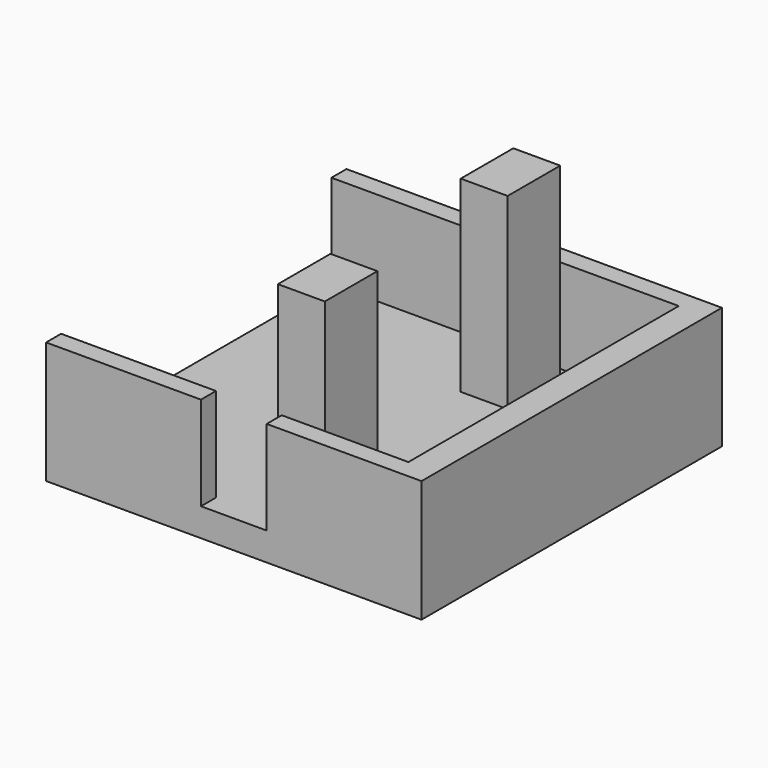
from build123d import *

# Parameters (mm, degrees)
F0_W      = 50.8
F0_H      = 50.8
F1_DEPTH  = 3.81
F2_W      = 50.8
F2_H      = 2.54
F3_DEPTH  = 12.7
F4_W      = 20.955
F4_H      = 2.54
F5_DEPTH  = 12.7
F6_W      = 20.955
F6_H      = 2.54
F7_DEPTH  = 2.54
F8_W      = 3.81
F8_H      = 45.72
F9_DEPTH  = 2.54
F10_DEPTH = 10.16
F11_W     = 6.35
F11_H     = 8.89
F12_DEPTH = 25.4
F13_W     = 6.35
F13_H     = 8.89
F14_DEPTH = 25.4


with BuildPart() as f1:
    # F0 (on Top) → F1 (new body)
    with BuildSketch(Plane.XY):
        with Locations((-6.6145006567, 7.1719978217)):
            Rectangle(F0_W, F0_H)
    extrude(amount=F1_DEPTH)

    # F2 (on face) → F3 (join)
    with BuildSketch(Plane.XY.offset(3.81)):
        with Locations((-6.6145006567, 31.3019978217)):
            Rectangle(F2_W, F2_H)
    extrude(amount=F3_DEPTH)

    # F4 (on face) → F5 (join)
    with BuildSketch(Plane.XY.offset(3.81)):
        with Locations((-21.5370006567, -16.9580021783)):
            Rectangle(F4_W, F4_H)
    extrude(amount=F5_DEPTH)

    # F6 (on face) → F7 (join)
    with BuildSketch(Plane.XY.offset(3.81)):
        with Locations((8.3079993433, -16.9580021783)):
            Rectangle(F6_W, F6_H)
    extrude(amount=F7_DEPTH)

    # F8 (on face) → F9 (join)
    with BuildSketch(Plane.XY.offset(3.81)):
        with Locations((16.8804993433, 7.1719978217)):
            Rectangle(F8_W, F8_H)
    extrude(amount=F9_DEPTH)

    # F10 (add): a face of the model
    f10_faces = [f1.faces().sort_by_distance(p)[0] for p in [
        (6.4029993433, -16.214133305, 6.35),
    ]]
    extrude(f10_faces, amount=F10_DEPTH)

    # F11 (on face) → F12 (join)
    with BuildSketch(Plane.XY.offset(3.81)):
        with Locations((-2.8045006567, -7.122488919)):
            Rectangle(F11_W, F11_H)
    extrude(amount=F12_DEPTH)

    # F13 (on face) → F14 (join)
    with BuildSketch(Plane.XY.offset(3.81)):
        with Locations((-2.8045006567, 23.80011379)):
            Rectangle(F13_W, F13_H)
    extrude(amount=F14_DEPTH)


solid = f1.part
